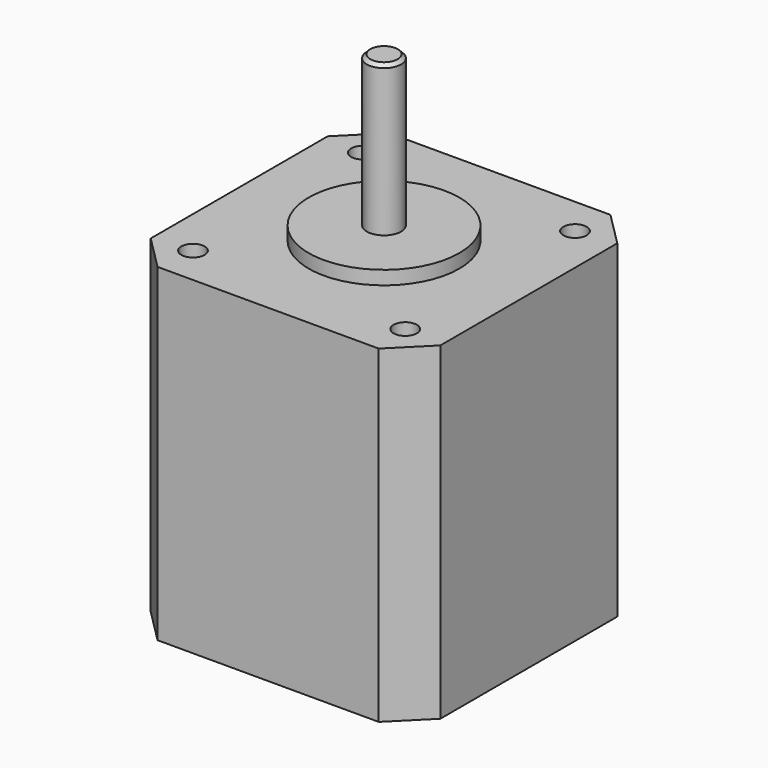
from build123d import *

# Parameters (mm, degrees)
SKETCH_W        = 42.3
SKETCH_H        = 42.3
PAD_DEPTH       = 48
SKETCH001_R     = 11
PAD001_DEPTH    = 2
SKETCH002_R     = 2.5
PAD002_DEPTH    = 24
CHAMFER_SIZE    = 0.5
SKETCH004_R     = 1.7
HOLE_DEPTH      = 4
HOLE_TIPS_R     = 1.7
CHAMFER001_SIZE = 5


with BuildPart() as part:
    # Sketch → Pad (new body)
    with BuildSketch(Plane.XY):
        Rectangle(SKETCH_W, SKETCH_H)
    extrude(amount=PAD_DEPTH)

    # Sketch001 (on Face6 of Pad) → Pad001 (join)
    with BuildSketch(Plane.XY.offset(48)):
        Circle(SKETCH001_R)
    extrude(amount=PAD001_DEPTH)

    # Sketch002 (on Face5 of Pad001) → Pad002 (join)
    with BuildSketch(Plane.XY.offset(48)):
        Circle(SKETCH002_R)
    extrude(amount=PAD002_DEPTH)

    # Chamfer
    chamfer_edges = [part.edges().sort_by_distance(p)[0] for p in [
        (-2.5, 0, 72),
    ]]
    chamfer(chamfer_edges, length=CHAMFER_SIZE)

    # Sketch004 → Hole (cut)
    with BuildSketch(Plane.XY.offset(48)):
        with Locations((15.5, -15.5)):
            Circle(SKETCH004_R)
        with Locations((15.5, 15.5)):
            Circle(SKETCH004_R)
        with Locations((-15.5, 15.5)):
            Circle(SKETCH004_R)
        with Locations((-15.5, -15.5)):
            Circle(SKETCH004_R)
    extrude(amount=-HOLE_DEPTH, mode=Mode.SUBTRACT)

    # Hole tips → Hole tip 1 section 0
    with BuildSketch(Plane.XY.offset(44), mode=Mode.PRIVATE) as hole_tip_1_s0:
        with Locations((15.5, -15.5)):
            Circle(HOLE_TIPS_R)
    loft([hole_tip_1_s0.sketch, Vertex(15.5, -15.5, 42.978537)], mode=Mode.SUBTRACT)

    # Hole tips → Hole tip 2 section 0
    with BuildSketch(Plane.XY.offset(44), mode=Mode.PRIVATE) as hole_tip_2_s0:
        with Locations((15.5, 15.5)):
            Circle(HOLE_TIPS_R)
    loft([hole_tip_2_s0.sketch, Vertex(15.5, 15.5, 42.978537)], mode=Mode.SUBTRACT)

    # Hole tips → Hole tip 3 section 0
    with BuildSketch(Plane.XY.offset(44), mode=Mode.PRIVATE) as hole_tip_3_s0:
        with Locations((-15.5, 15.5)):
            Circle(HOLE_TIPS_R)
    loft([hole_tip_3_s0.sketch, Vertex(-15.5, 15.5, 42.978537)], mode=Mode.SUBTRACT)

    # Hole tips → Hole tip 4 section 0
    with BuildSketch(Plane.XY.offset(44), mode=Mode.PRIVATE) as hole_tip_4_s0:
        with Locations((-15.5, -15.5)):
            Circle(HOLE_TIPS_R)
    loft([hole_tip_4_s0.sketch, Vertex(-15.5, -15.5, 42.978537)], mode=Mode.SUBTRACT)

    # Chamfer001
    chamfer001_edges = [part.edges().sort_by_distance(p)[0] for p in [
        (21.15, -21.15, 24),
        (21.15, 21.15, 24),
        (-21.15, -21.15, 24),
        (-21.15, 21.15, 24),
    ]]
    chamfer(chamfer001_edges, length=CHAMFER001_SIZE)


with BuildPart() as part_1:
    # Body placement: moved
    add(part.part.moved(Location((0, 0, -50))))


solid = part_1.part
